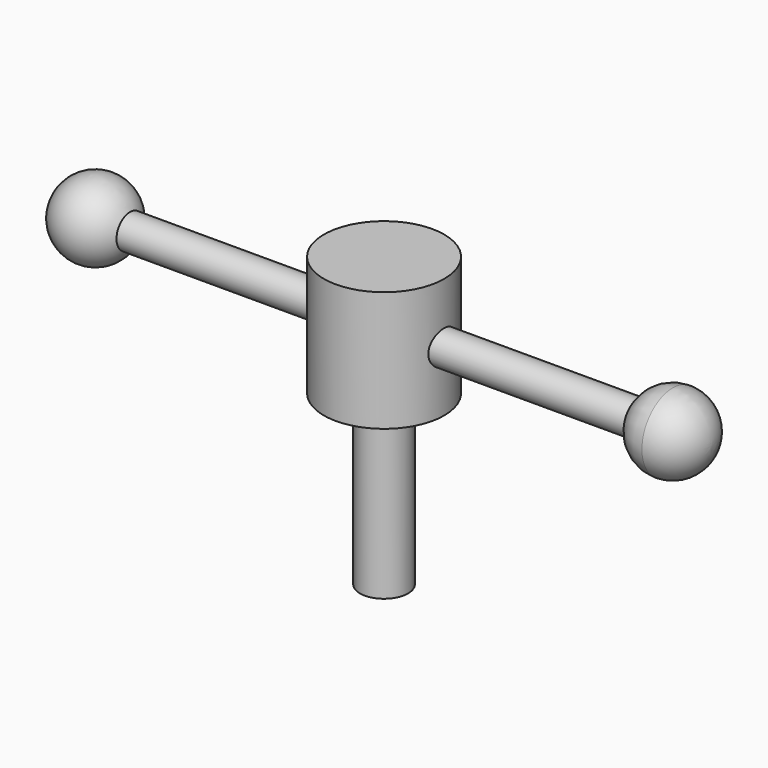
from build123d import *

# Parameters (mm, degrees)
F0_R     = 15.875
F1_DEPTH = 31.75
F2_R     = 6.35
F3_DEPTH = 44.45
F4_R     = 4.445
F5_DEPTH = 76.2


with BuildPart() as f1:
    # F0 (on Top) → F1 (new body)
    with BuildSketch(Plane.XY):
        Circle(F0_R)
    extrude(amount=F1_DEPTH)

    # F2 (on face) → F3 (join)
    with BuildSketch(Plane(origin=(0, 0, 0), x_dir=(1, 0, 0), z_dir=(0, 0, -1))):
        Circle(F2_R)
    extrude(amount=F3_DEPTH)

    # F4 (on Right) → F5 (join, symmetric)
    with BuildSketch(Plane.YZ):
        with Locations((0, 15.875)):
            Circle(F4_R)
    extrude(amount=F5_DEPTH, both=True)

    # F6 (on Front) → F7 (revolve)
    with BuildSketch(Plane.XZ):
        with BuildLine():
            Line((-76.2, 15.875), (-76.2, 20.32))
            Line((-76.2, 20.32), (-67.063941, 20.32))
            ThreePointArc((-67.063941, 20.32), (-78.480706, 25.775706), (-86.36, 15.875))
            Line((-86.36, 15.875), (-76.2, 15.875))
        make_face()
        with BuildLine():
            Line((76.2, 26.035), (76.2, 20.32))
            Line((76.2, 20.32), (76.2, 15.875))
            Line((76.2, 15.875), (86.36, 15.875))
            ThreePointArc((86.36, 15.875), (83.384205, 23.059205), (76.2, 26.035))
        make_face()
        with BuildLine():
            ThreePointArc((76.2, 26.035), (70.811846, 24.488559), (67.063941, 20.32))
            Line((67.063941, 20.32), (76.2, 20.32))
            Line((76.2, 20.32), (76.2, 26.035))
        make_face()
    revolve(axis=Axis((-81.28, 0, 15.875), (1, 0, 0)))


solid = f1.part
